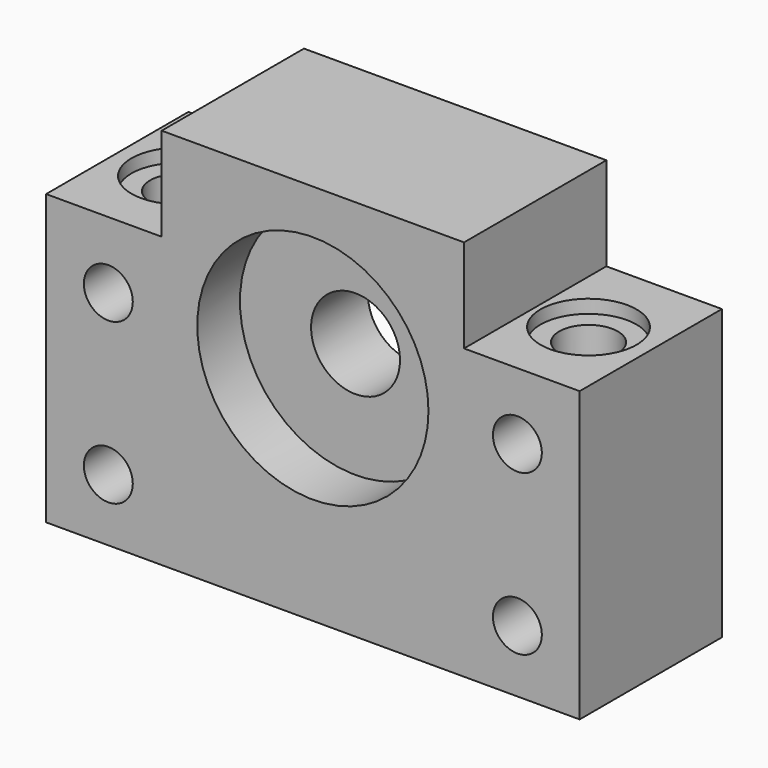
from build123d import *

# Parameters (mm, degrees)
SKETCH_R        = 5
SKETCH_R_2      = 2.75
PAD_DEPTH       = 20
SKETCH001_R     = 3.3
POCKET_DEPTH    = 43.001
SKETCH002_R     = 5.4
POCKET001_DEPTH = 1.5
SKETCH003_R     = 13
POCKET002_DEPTH = 6
SKETCH004_R     = 13
POCKET003_DEPTH = 6


with BuildPart() as part:
    # Sketch → Pad (new body)
    with BuildSketch(Plane.XZ):
        Polygon((-30, 0), (30, 0), (30, 32.5), (17, 32.5), (17, 43), (-17, 43), (-17, 32.5), (-30, 32.5), align=None)
        with Locations((0, 25)):
            Circle(SKETCH_R, mode=Mode.SUBTRACT)
        with Locations((-23, 25)):
            Circle(SKETCH_R_2, mode=Mode.SUBTRACT)
        with Locations((-23, 7)):
            Circle(SKETCH_R_2, mode=Mode.SUBTRACT)
        with Locations((23, 7)):
            Circle(SKETCH_R_2, mode=Mode.SUBTRACT)
        with Locations((23, 25)):
            Circle(SKETCH_R_2, mode=Mode.SUBTRACT)
    extrude(amount=PAD_DEPTH)

    # Sketch001 (on Face1 of Pad) → Pocket (cut, through all)
    with BuildSketch(Plane(origin=(0, 0, 0), x_dir=(1, 0, 0), z_dir=(0, 0, -1))):
        with Locations((-23, 10)):
            Circle(SKETCH001_R)
        with Locations((23, 10)):
            Circle(SKETCH001_R)
    extrude(amount=-POCKET_DEPTH, mode=Mode.SUBTRACT)

    # Sketch002 (on Face9 of Pocket) → Pocket001 (cut)
    with BuildSketch(Plane(origin=(0, 0, 32.5), x_dir=(-1, 0, 0), z_dir=(0, 0, 1))):
        with Locations((-23, 10)):
            Circle(SKETCH002_R)
        with Locations((23, 10)):
            Circle(SKETCH002_R)
    extrude(amount=-POCKET001_DEPTH, mode=Mode.SUBTRACT)

    # Sketch003 (on Face4 of Pocket001) → Pocket002 (cut)
    with BuildSketch(Plane.XZ.offset(20)):
        with Locations((0, 25)):
            Circle(SKETCH003_R)
    extrude(amount=-POCKET002_DEPTH, mode=Mode.SUBTRACT)

    # Sketch004 (on Face3 of Pocket002) → Pocket003 (cut)
    with BuildSketch(Plane(origin=(0, 0, 0), x_dir=(1, 0, 0), z_dir=(0, 1, 0))):
        with Locations((0, -25)):
            Circle(SKETCH004_R)
    extrude(amount=-POCKET003_DEPTH, mode=Mode.SUBTRACT)


solid = part.part
